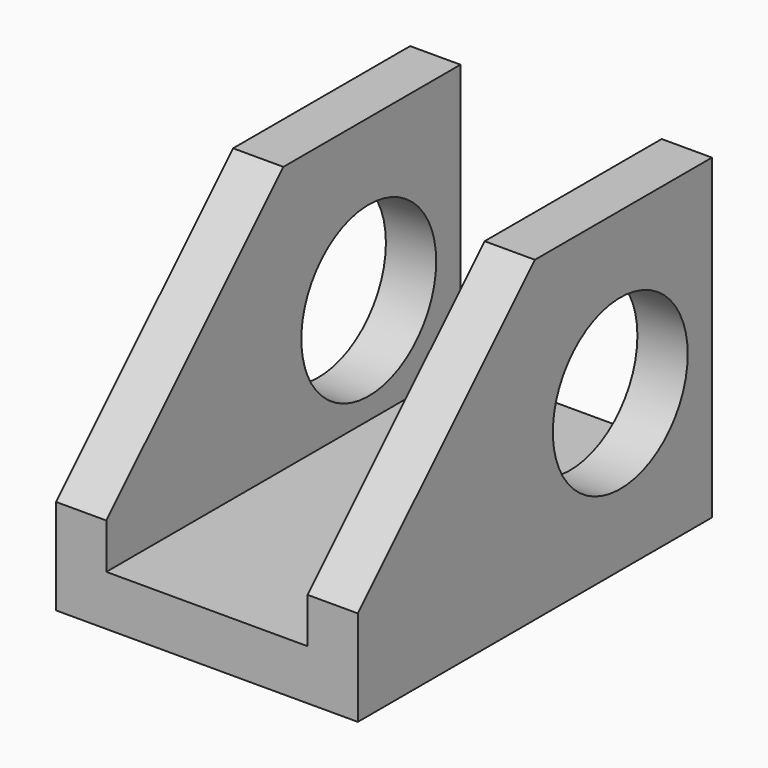
from build123d import *

# Parameters (mm, degrees)
F1_DEPTH = 6.35
F2_W     = 6.35
F2_H     = 55.88
F3_DEPTH = 33.64992
F4_SIZE  = 27.94
F5_R     = 10.64163
F6_DEPTH = 38.101


with BuildPart() as f1:
    # F0 (on Top) → F1 (new body)
    with BuildSketch(Plane.XY):
        Polygon((19.05, 27.94), (0, 27.94), (-19.05, 27.94), (-19.05, 0), (-19.05, -27.94), (0, -27.94), (19.05, -27.94), (19.05, 0), align=None)
    extrude(amount=F1_DEPTH)

    # F2 (on face) → F3 (join)
    with BuildSketch(Plane.XY.offset(6.35)):
        with Locations((-15.875, 0)):
            Rectangle(F2_W, F2_H)
        with Locations((15.875, 0)):
            Rectangle(F2_W, F2_H)
    extrude(amount=F3_DEPTH)

    # F4
    f4_edges = [f1.edges().sort_by_distance(p)[0] for p in [
        (15.875, -27.94, 39.99992),
        (-15.875, -27.94, 39.99992),
    ]]
    chamfer(f4_edges, length=F4_SIZE)

    # F5 (on face) → F6 (cut, through all)
    with BuildSketch(Plane.YZ.offset(19.05)):
        with Locations((13.47094, 19.69512)):
            Circle(F5_R)
    extrude(amount=-F6_DEPTH, mode=Mode.SUBTRACT)


solid = f1.part
